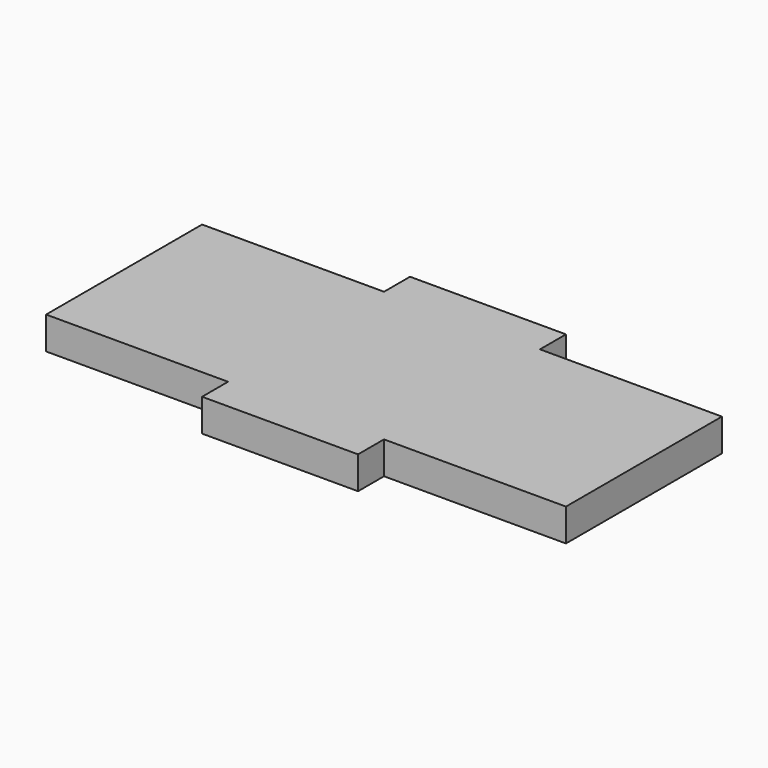
from build123d import *

# Parameters (mm, degrees)
F1_DEPTH = 3.175


with BuildPart() as f1:
    # F0 (on Top) → F1 (new body)
    with BuildSketch(Plane.XY):
        Polygon((-8.043333, -12.08008), (7.196667, -12.08008), (7.196667, -8.909827), (24.976667, -8.909827), (24.976667, -5.734827), (24.976667, 6.972516), (24.976667, 10.140173), (7.196667, 10.140173), (7.196667, 13.315173), (-8.043333, 13.315173), (-8.043333, 10.143056), (-25.823333, 10.143056), (-25.823333, 6.970938), (-25.823333, -5.734827), (-25.823333, -8.909827), (-8.043333, -8.909827), align=None)
    extrude(amount=F1_DEPTH)


solid = f1.part
